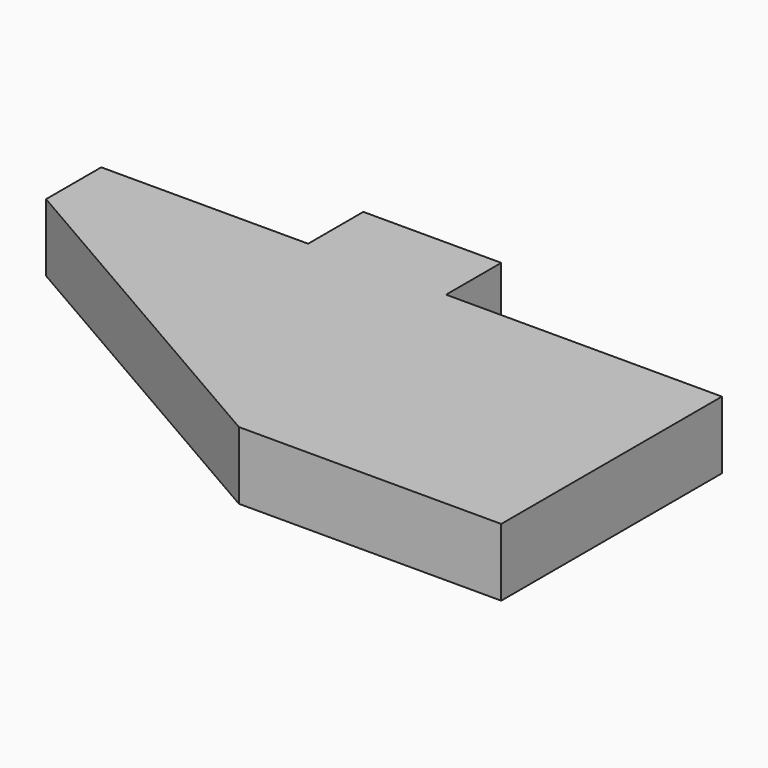
from build123d import *

# Parameters (mm, degrees)
F0_W     = 12.7
F0_H     = 6.35
F1_DEPTH = 6.223


with BuildPart() as f1:
    # F0 (on Top) → F1 (new body)
    with BuildSketch(Plane.XY):
        Polygon((4.420568, -12.7), (28.575, -12.7), (28.575, 12.7), (3.175, 12.7), (-9.525, 12.7), (-28.575, 12.7), (-28.575, 6.35), align=None)
        with Locations((-3.175, 15.875)):
            Rectangle(F0_W, F0_H)
    extrude(amount=F1_DEPTH)


solid = f1.part
